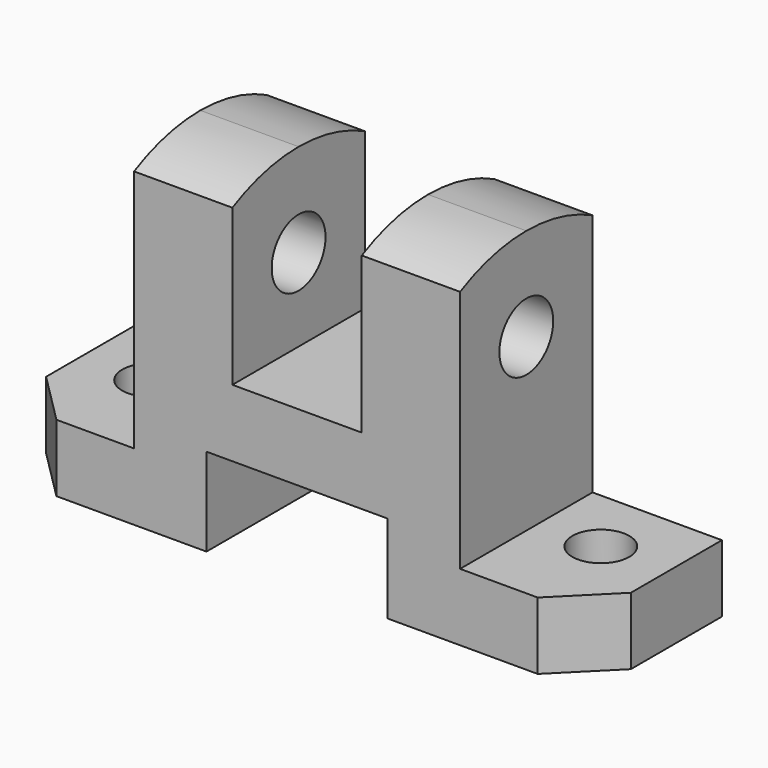
from build123d import *

# Parameters (mm, degrees)
F1_DEPTH = 16
F2_R     = 5.5
F3_DEPTH = 13.001
F4_SIZE2 = 10
F4_SIZE  = 10
F5_R     = 6.5
F6_DEPTH = 88.001


with BuildPart() as f1:
    # F0 (on Front) → F1 (new body, symmetric)
    with BuildSketch(Plane.XZ):
        Polygon((0, 13), (0, 0), (39, 0), (39, 17), (74, 17), (74, 0), (113, 0), (113, 13), (88, 13), (88, 64), (69, 64), (69, 30), (44, 30), (44, 64), (25, 64), (25, 13), align=None)
    extrude(amount=F1_DEPTH, both=True)

    # F2 (on face) → F3 (cut, through all)
    with BuildSketch(Plane.XY.offset(13)):
        with Locations((100, 3)):
            Circle(F2_R)
        with Locations((13, 3)):
            Circle(F2_R)
    extrude(amount=-F3_DEPTH, mode=Mode.SUBTRACT)

    # F4
    f4_edges = [f1.edges().sort_by_distance(p)[0] for p in [
        (0, -16, 6.5),
        (113, -16, 6.5),
    ]]
    chamfer(f4_edges, length=F4_SIZE, length2=F4_SIZE2)

    # F5 (on face) → F6 (cut, through all)
    with BuildSketch(Plane.YZ.offset(88)):
        with Locations((0, 46)):
            Circle(F5_R)
        with BuildLine():
            ThreePointArc((-16, 60.128765), (-8.230833, 63.018427), (0, 64))
            Line((0, 64), (-16, 64))
            Line((-16, 64), (-16, 60.128765))
        make_face()
        with BuildLine():
            ThreePointArc((0, 64), (8.230833, 63.018427), (16, 60.128765))
            Line((16, 60.128765), (16, 64))
            Line((16, 64), (0, 64))
        make_face()
    extrude(amount=-F6_DEPTH, mode=Mode.SUBTRACT)


solid = f1.part
